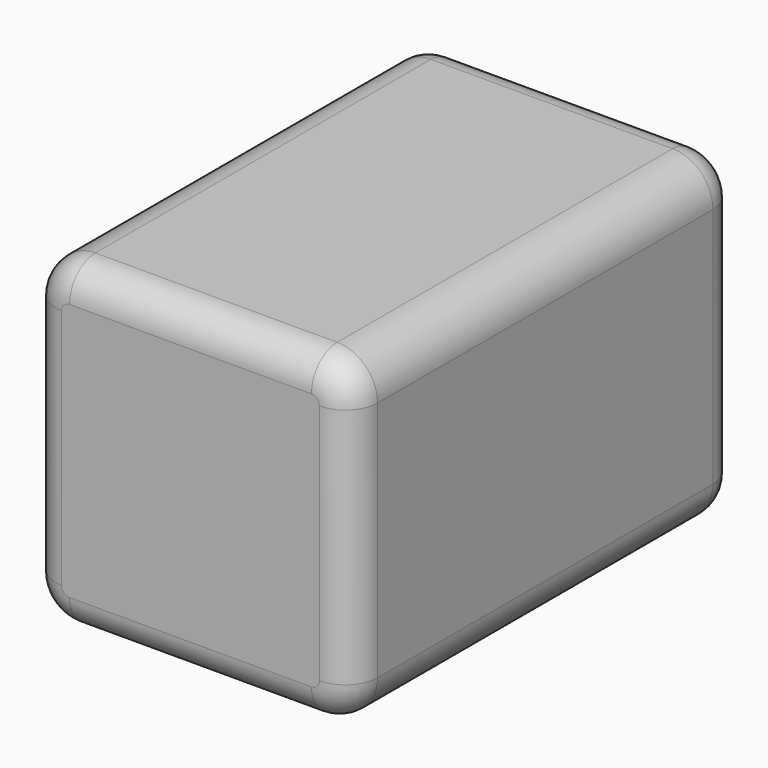
from build123d import *

# Parameters (mm, degrees)
F1_DEPTH = 25.4
F2_DEPTH = 50.8
F3_R     = 5.08
F4_R     = 5.08


with BuildPart() as f1:
    # F0 (on Front) → F1 (new body)
    with BuildSketch(Plane.XZ):
        with BuildLine():
            ThreePointArc((-20.1909632862, 20.5575729657), (-24.6810913467, 18.6977010262), (-26.5409632862, 14.2075729657))
            Line((-26.5409632862, 14.2075729657), (-26.5409632862, -23.8924270343))
            ThreePointArc((-26.5409632862, -23.8924270343), (-24.6810913467, -28.3825550948), (-20.1909632862, -30.2424270343))
            Line((-20.1909632862, -30.2424270343), (17.9090367138, -30.2424270343))
            ThreePointArc((17.9090367138, -30.2424270343), (22.3991647744, -28.3825550948), (24.2590367138, -23.8924270343))
            Line((24.2590367138, -23.8924270343), (24.2590367138, 14.2075729657))
            ThreePointArc((24.2590367138, 14.2075729657), (22.3991647744, 18.6977010262), (17.9090367138, 20.5575729657))
            Line((17.9090367138, 20.5575729657), (-20.1909632862, 20.5575729657))
        make_face()
    extrude(amount=F1_DEPTH)

    # F2 (add): a face of the model
    f2_faces = [f1.faces().sort_by_distance(p)[0] for p in [
        (-1.1409632862, -25.4, -4.8424270343),
    ]]
    extrude(f2_faces, amount=F2_DEPTH)

    # F3
    f3_edges = [f1.edges().sort_by_distance(p)[0] for p in [
        (-26.540963, -76.2, -4.842427),
    ]]
    fillet(f3_edges, radius=F3_R)

    # F4
    f4_edges = [f1.edges().sort_by_distance(p)[0] for p in [
        (22.399165, 0, 18.697701),
        (-1.140963, 0, 20.557573),
        (-24.681091, 0, 18.697701),
        (-26.540963, 0, -4.842427),
        (-24.681091, 0, -28.382555),
        (-1.140963, 0, -30.242427),
        (22.399165, 0, -28.382555),
        (24.259037, 0, -4.842427),
    ]]
    fillet(f4_edges, radius=F4_R)


solid = f1.part
